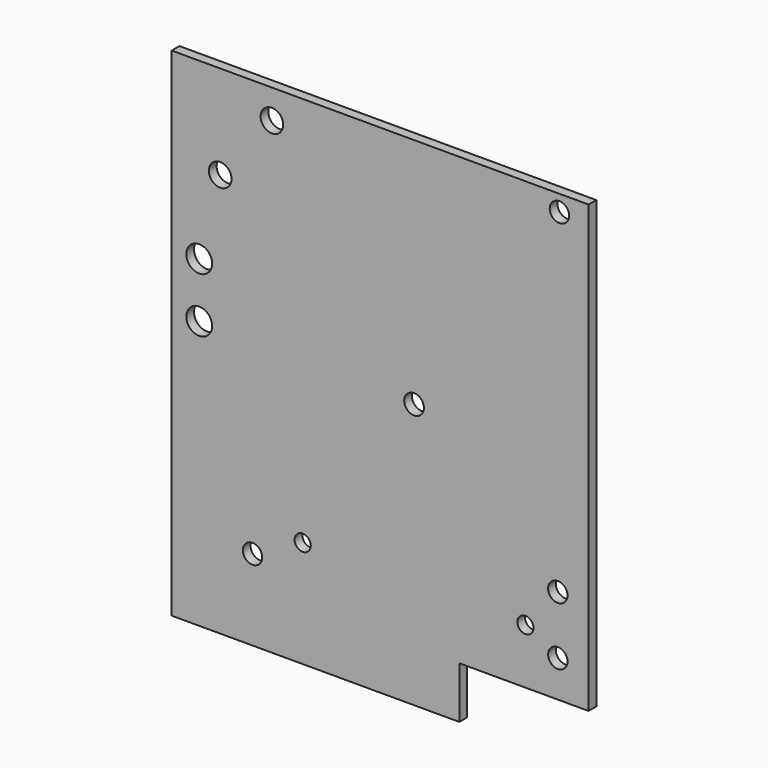
from build123d import *

# Parameters (mm, degrees)
F1_DEPTH = 3
F2_D     = 7
F3_D     = 6.1
F4_D     = 6
F6_D     = 5
F7_D     = 8
F8_D     = 6


with BuildPart() as f1:
    # F0 (on Front) → F1 (new body)
    with BuildSketch(Plane.XZ):
        Polygon((129, 0), (0, 0), (0, -154), (89, -154), (89, -138), (129, -138), align=None)
    extrude(amount=F1_DEPTH)

    # F2 (through all)
    with Locations(Plane(origin=(0, 0, 0), x_dir=(1, 0, 0), z_dir=(0, 1, 0))):
        with Locations((15, 29), (31, 9)):
            Hole(F2_D / 2)

    # F3 (through all)
    with Locations(Plane(origin=(0, 0, 0), x_dir=(1, 0, 0), z_dir=(0, 1, 0))):
        with Locations((75, 72)):
            Hole(F3_D / 2)

    # F4 (through all)
    with Locations(Plane(origin=(0, 0, 0), x_dir=(1, 0, 0), z_dir=(0, 1, 0))):
        with Locations((120, 5), (25, 129)):
            Hole(F4_D / 2)

    # F6 (through all)
    with Locations(Plane.XZ.offset(3)):
        with Locations((40.5317286446, -120.9223137817), (109.4682713554, -120.9223137817)):
            Hole(F6_D / 2)

    # F7 (through all)
    with Locations(Plane.XZ.offset(3)):
        with Locations((8.5, -71), (8.5, -54)):
            Hole(F7_D / 2)

    # F8 (through all)
    with Locations(Plane.XZ.offset(3)):
        with Locations((119.5, -108.667), (119.5, -126.667)):
            Hole(F8_D / 2)


solid = f1.part
